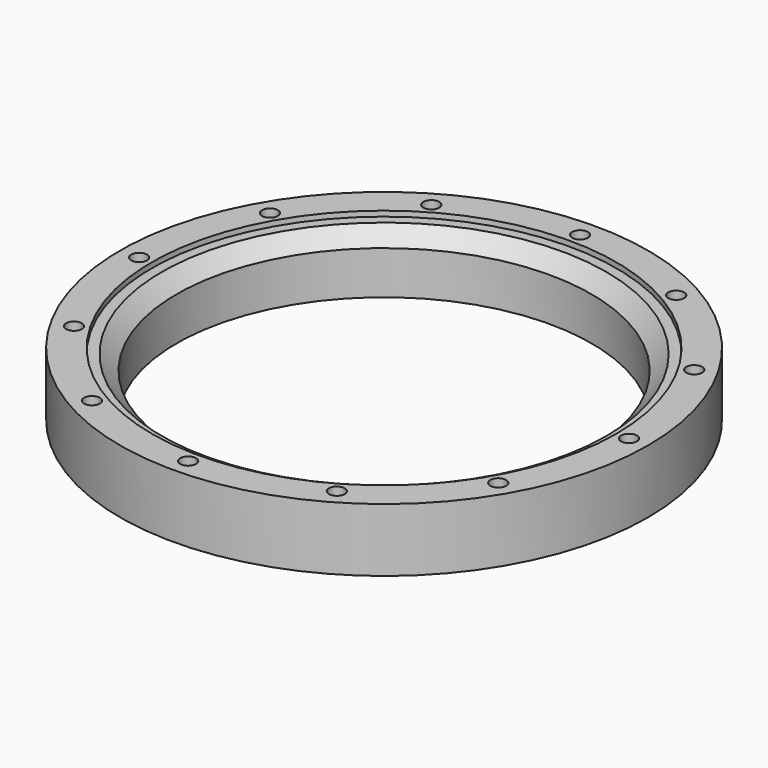
from build123d import *

# Parameters (mm, degrees)
SKETCH_R           = 1.5
POCKET_DEPTH       = 295.86012
POLARPATTERN_COUNT = 12


with BuildPart() as part:
    # Sketch013 → Revolution (revolve)
    with BuildSketch(Plane.XZ):
        Polygon((39.3, 0), (39.3, 8.198781), (42.101219, 11), (44, 11), (44, 12), (50, 12), (50, 0), align=None)
    revolve(axis=Axis((0, 0, 0), (0, 0, 1)))

    # Sketch → Pocket (cut, through all)
    with BuildSketch(Plane(origin=(0, 0, 0), x_dir=(1, 0, 0), z_dir=(0, 0, -1))):
        with Locations((46.4, 0)):
            Circle(SKETCH_R)
    pocket = extrude(amount=-POCKET_DEPTH, mode=Mode.SUBTRACT)

    # PolarPattern: Pocket ×12 about axis
    polarpattern_axis = Axis((0, 0, 0), (0, 0, -1))
    for i in range(1, POLARPATTERN_COUNT):
        add(pocket.rotate(polarpattern_axis, i * 360 / POLARPATTERN_COUNT), mode=Mode.SUBTRACT)


solid = part.part
